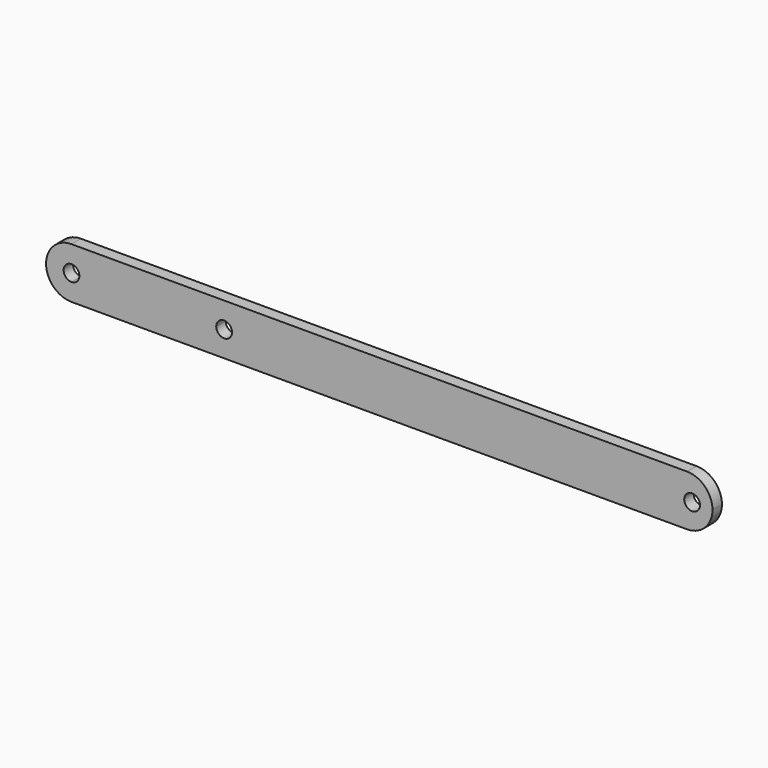
from build123d import *

# Parameters (mm, degrees)
F0_R     = 3.1
F1_DEPTH = 4.65


with BuildPart() as f1:
    # F0 (on Front) → F1 (new body)
    with BuildSketch(Plane.XZ):
        with BuildLine():
            ThreePointArc((100, 0), (97.0710678119, 7.0710678119), (90, 10))
            Line((90, 10), (-90, 10))
            Line((-90, 10), (-90, 2.3685438565))
            ThreePointArc((-90, 2.3685438565), (-89.1884168161, 1.3057564857), (-88.9, 0))
            ThreePointArc((-88.9, 0), (-89.1884168161, -1.3057564857), (-90, -2.3685438565))
            Line((-90, -2.3685438565), (-90, -10))
            Line((-90, -10), (90, -10))
            ThreePointArc((90, -10), (97.0710678119, -7.0710678119), (100, 0))
        make_face()
        with Locations((92, 0)):
            Circle(F0_R, mode=Mode.SUBTRACT)
        with BuildLine():
            Line((-90, 2.3685438565), (-90, 10))
            Line((-90, 10), (-100, 10))
            Line((-100, 10), (-100, 0))
            Line((-100, 0), (-95.1, 0))
            ThreePointArc((-95.1, 0), (-93.3057564857, 2.8115831839), (-90, 2.3685438565))
        make_face()
        with BuildLine():
            Line((-100, 0), (-100, 10))
            Line((-100, 10), (-152, 10))
            Line((-152, 10), (-152, 3.1))
            ThreePointArc((-152, 3.1), (-149.8079689783, 2.1920310217), (-148.9, 0))
            ThreePointArc((-148.9, 0), (-149.8079689783, -2.1920310217), (-152, -3.1))
            Line((-152, -3.1), (-152, -10))
            Line((-152, -10), (-100, -10))
            Line((-100, -10), (-100, 0))
        make_face()
        with BuildLine():
            Line((-95.1, 0), (-100, 0))
            Line((-100, 0), (-100, -10))
            Line((-100, -10), (-90, -10))
            Line((-90, -10), (-90, -2.3685438565))
            ThreePointArc((-90, -2.3685438565), (-93.3057564857, -2.8115831839), (-95.1, 0))
        make_face()
        with BuildLine():
            Line((-152, 3.1), (-152, 10))
            ThreePointArc((-152, 10), (-162, 0), (-152, -10))
            Line((-152, -10), (-152, -3.1))
            ThreePointArc((-152, -3.1), (-155.1, 0), (-152, 3.1))
        make_face()
    extrude(amount=F1_DEPTH)


solid = f1.part
